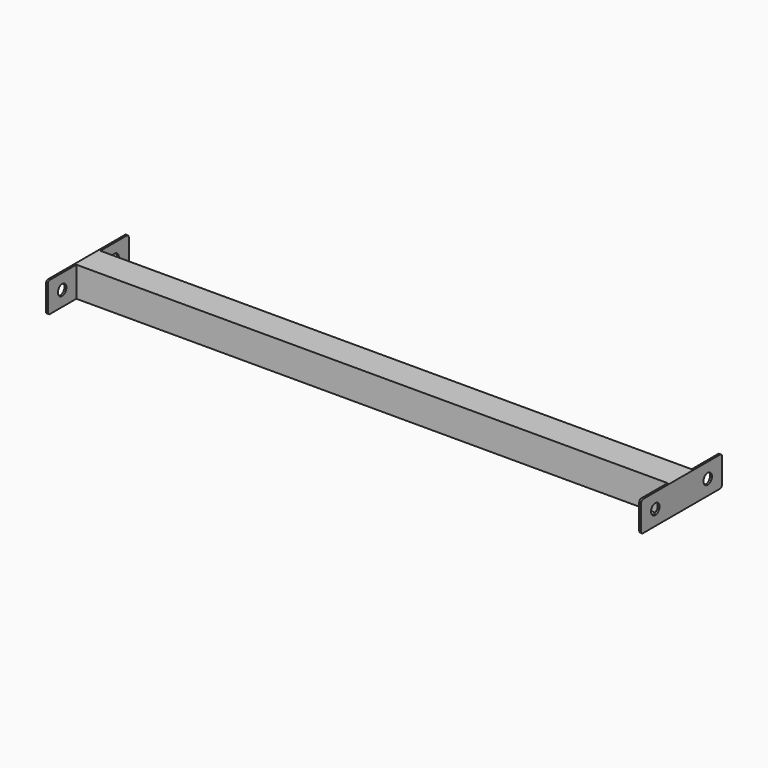
from build123d import *

# Parameters (mm, degrees)
F0_W     = 25.4
F0_H     = 25.4
F1_DEPTH = 250
F2_T     = -2
F3_R     = 4.5
F4_DEPTH = 1.6
F5_R     = 4.5
F6_DEPTH = 1.6


with BuildPart() as f1:
    # F0 (on Right) → F1 (new body, symmetric)
    with BuildSketch(Plane.YZ):
        Rectangle(F0_W, F0_H)
    extrude(amount=F1_DEPTH, both=True)

    # F2
    f2_openings = [f1.faces().sort_by_distance(p)[0] for p in [
        (250, 0, 0),
        (-250, 0, 0),
    ]]
    offset(amount=F2_T, openings=f2_openings)

    # F3 (on face) → F4 (join)
    with BuildSketch(Plane.YZ.offset(250)):
        with BuildLine():
            ThreePointArc((42.7, 10.7), (42.114214, 12.114214), (40.7, 12.7))
            Line((40.7, 12.7), (-40.7, 12.7))
            ThreePointArc((-40.7, 12.7), (-42.114214, 12.114214), (-42.7, 10.7))
            Line((-42.7, 10.7), (-42.7, -10.7))
            ThreePointArc((-42.7, -10.7), (-42.114214, -12.114214), (-40.7, -12.7))
            Line((-40.7, -12.7), (40.7, -12.7))
            ThreePointArc((40.7, -12.7), (42.114214, -12.114214), (42.7, -10.7))
            Line((42.7, -10.7), (42.7, 10.7))
        make_face()
        with Locations((-27.7, 0)):
            Circle(F3_R, mode=Mode.SUBTRACT)
        with Locations((27.7, 0)):
            Circle(F3_R, mode=Mode.SUBTRACT)
    extrude(amount=F4_DEPTH)

    # F5 (on face) → F6 (join)
    with BuildSketch(Plane(origin=(-250, 0, 0), x_dir=(0, -1, 0), z_dir=(-1, 0, 0))):
        with BuildLine():
            Line((-12.7, 12.7), (-40.7, 12.7))
            ThreePointArc((-40.7, 12.7), (-42.114214, 12.114214), (-42.7, 10.7))
            Line((-42.7, 10.7), (-42.7, -10.7))
            ThreePointArc((-42.7, -10.7), (-42.114214, -12.114214), (-40.7, -12.7))
            Line((-40.7, -12.7), (-12.7, -12.7))
            Line((-12.7, -12.7), (-12.7, 12.7))
        make_face()
        with Locations((-27.7, 0)):
            Circle(F5_R, mode=Mode.SUBTRACT)
        with BuildLine():
            Line((12.7, 12.7), (-12.7, 12.7))
            Line((-12.7, 12.7), (-12.7, -12.7))
            Line((-12.7, -12.7), (12.7, -12.7))
            Line((12.7, -12.7), (40.7, -12.7))
            ThreePointArc((40.7, -12.7), (42.114214, -12.114214), (42.7, -10.7))
            Line((42.7, -10.7), (42.7, 10.7))
            ThreePointArc((42.7, 10.7), (42.114214, 12.114214), (40.7, 12.7))
            Line((40.7, 12.7), (12.7, 12.7))
        make_face()
        with Locations((27.7, 0)):
            Circle(F5_R, mode=Mode.SUBTRACT)
    extrude(amount=F6_DEPTH)


solid = f1.part
